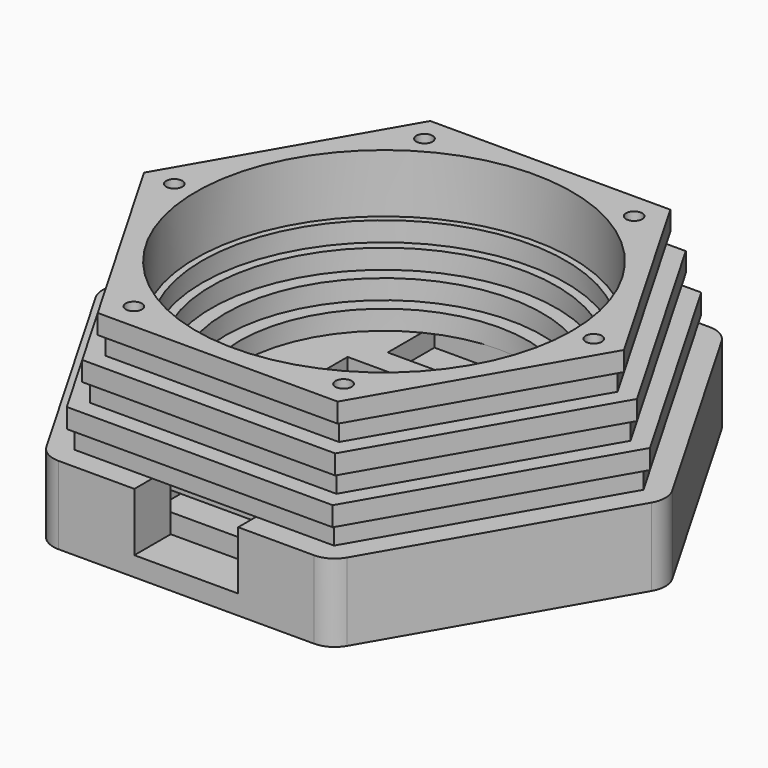
from build123d import *

# Parameters (mm, degrees)
PAD_DEPTH          = 9
SKETCH001_W        = 26.1
SKETCH001_H        = 34.4
POCKET_DEPTH       = 3
SKETCH002_R        = 22.22
PAD001_DEPTH       = 3
SKETCH003_R        = 24.44
PAD002_DEPTH       = 3
SKETCH004_R        = 26.6
PAD003_DEPTH       = 3
SKETCH005_R        = 28
PAD004_DEPTH       = 3
SKETCH006_R        = 29
PAD005_DEPTH       = 3
SKETCH007_R        = 29
PAD006_DEPTH       = 3
SKETCH008_R        = 29
PAD007_DEPTH       = 3
SKETCH009_W        = 17
SKETCH009_H        = 24
POCKET001_DEPTH    = 3
SKETCH010_W        = 16
SKETCH010_H        = 9
POCKET002_DEPTH    = 7
SKETCH011_W        = 20
SKETCH011_H        = 9
POCKET003_DEPTH    = 3
SKETCH012_R        = 1.25
POCKET004_DEPTH    = 270.433943
POLARPATTERN_COUNT = 6
SKETCH013_W        = 3
SKETCH013_H        = 38
POCKET005_DEPTH    = 3
SKETCH014_W        = 3
SKETCH014_H        = 6
POCKET006_DEPTH    = 6
SKETCH015_W        = 10.05
SKETCH015_H        = 6
POCKET007_DEPTH    = 3
FILLET_R           = 4


with BuildPart() as part:
    # Sketch → Pad (new body)
    with BuildSketch(Plane.XY):
        Polygon((44, 0), (22, 38.105118), (-22, 38.105118), (-44, 0), (-22, -38.105118), (22, -38.105118), align=None)
    extrude(amount=PAD_DEPTH)

    # Sketch001 (on Face8 of Pad) → Pocket (cut)
    with BuildSketch(Plane.XY.offset(9)):
        with Locations((0, -13.905118)):
            Rectangle(SKETCH001_W, SKETCH001_H)
    extrude(amount=-POCKET_DEPTH, mode=Mode.SUBTRACT)

    # Sketch002 (on Face5 of Pocket) → Pad001 (join)
    with BuildSketch(Plane.XY.offset(9)):
        Polygon((22, 38.105118), (-22, 38.105118), (-44, 0), (-22, -38.105118), (22, -38.105118), (44, 0), align=None)
        Circle(SKETCH002_R, mode=Mode.SUBTRACT)
    extrude(amount=PAD001_DEPTH)

    # Sketch003 (on Face14 of Pad001) → Pad002 (join)
    with BuildSketch(Plane.XY.offset(12)):
        Polygon((40, 0), (20, 34.641016), (-20, 34.641016), (-40, 0), (-20, -34.641016), (20, -34.641016), align=None)
        Circle(SKETCH003_R, mode=Mode.SUBTRACT)
    extrude(amount=PAD002_DEPTH)

    # Sketch004 (on Face21 of Pad002) → Pad003 (join)
    with BuildSketch(Plane.XY.offset(15)):
        Polygon((41, 0), (20.5, 35.507042), (-20.5, 35.507042), (-41, 0), (-20.5, -35.507042), (20.5, -35.507042), align=None)
        Circle(SKETCH004_R, mode=Mode.SUBTRACT)
    extrude(amount=PAD003_DEPTH)

    # Sketch005 (on Face28 of Pad003) → Pad004 (join)
    with BuildSketch(Plane.XY.offset(18)):
        Polygon((19, 32.908965), (-19, 32.908965), (-38, 0), (-19, -32.908965), (19, -32.908965), (38, 0), align=None)
        Circle(SKETCH005_R, mode=Mode.SUBTRACT)
    extrude(amount=PAD004_DEPTH)

    # Sketch006 (on Face35 of Pad004) → Pad005 (join)
    with BuildSketch(Plane.XY.offset(21)):
        Polygon((39, 0), (19.5, 33.774991), (-19.5, 33.774991), (-39, 0), (-19.5, -33.774991), (19.5, -33.774991), align=None)
        Circle(SKETCH006_R, mode=Mode.SUBTRACT)
    extrude(amount=PAD005_DEPTH)

    # Sketch007 (on Face42 of Pad005) → Pad006 (join)
    with BuildSketch(Plane.XY.offset(24)):
        Polygon((36, 0), (18, 31.176915), (-18, 31.176915), (-36, 0), (-18, -31.176915), (18, -31.176915), align=None)
        Circle(SKETCH007_R, mode=Mode.SUBTRACT)
    extrude(amount=PAD006_DEPTH)

    # Sketch008 (on Face49 of Pad006) → Pad007 (join)
    with BuildSketch(Plane.XY.offset(27)):
        Polygon((37, 0), (18.5, 32.04294), (-18.5, 32.04294), (-37, 0), (-18.5, -32.04294), (18.5, -32.04294), align=None)
        Circle(SKETCH008_R, mode=Mode.SUBTRACT)
    extrude(amount=PAD007_DEPTH)

    # Sketch009 (on Face74 of Pad007) → Pocket001 (cut)
    with BuildSketch(Plane.XY.offset(6)):
        with Locations((0, -8.705118)):
            Rectangle(SKETCH009_W, SKETCH009_H)
    extrude(amount=-POCKET001_DEPTH, mode=Mode.SUBTRACT)

    # Sketch010 (on Face12 of Pocket001) → Pocket002 (cut)
    with BuildSketch(Plane.XZ.offset(38.105118)):
        with Locations((0, 7.5)):
            Rectangle(SKETCH010_W, SKETCH010_H)
    extrude(amount=-POCKET002_DEPTH, mode=Mode.SUBTRACT)

    # Sketch011 (on Face40 of Pocket002) → Pocket003 (cut)
    with BuildSketch(Plane.XY.offset(9)):
        with Locations((0, 17.72)):
            Rectangle(SKETCH011_W, SKETCH011_H)
    extrude(amount=-POCKET003_DEPTH, mode=Mode.SUBTRACT)

    # Sketch012 (on Face93 of Pocket003) → Pocket004 (cut, through all)
    with BuildSketch(Plane.XY.offset(30)):
        with Locations((-32.33, 0)):
            Circle(SKETCH012_R)
    pocket004 = extrude(amount=-POCKET004_DEPTH, mode=Mode.SUBTRACT)

    # PolarPattern: Pocket004 ×6 about axis
    polarpattern_axis = Axis((0, 0, 30), (0, 0, 1))
    for i in range(1, POLARPATTERN_COUNT):
        add(pocket004.rotate(polarpattern_axis, i * 360 / POLARPATTERN_COUNT), mode=Mode.SUBTRACT)

    # Sketch013 (on Face45 of PolarPattern) → Pocket005 (cut)
    with BuildSketch(Plane.XY.offset(6)):
        with Locations((-11.55, -12.105118)):
            Rectangle(SKETCH013_W, SKETCH013_H)
    extrude(amount=-POCKET005_DEPTH, mode=Mode.SUBTRACT)

    # Sketch014 (on Face58 of Pocket005) → Pocket006 (cut)
    with BuildSketch(Plane.XY.offset(9)):
        with Locations((-11.55, 6.294882)):
            Rectangle(SKETCH014_W, SKETCH014_H)
    extrude(amount=-POCKET006_DEPTH, mode=Mode.SUBTRACT)

    # Sketch015 (on Face58 of Pocket006) → Pocket007 (cut)
    with BuildSketch(Plane.XY.offset(9)):
        with Locations((-5.025, 6.294882)):
            Rectangle(SKETCH015_W, SKETCH015_H)
    extrude(amount=-POCKET007_DEPTH, mode=Mode.SUBTRACT)

    # Fillet
    fillet_edges = [part.edges().sort_by_distance(p)[0] for p in [
        (22, -38.105118, 4.5),
        (44, 0, 4.5),
        (22, 38.105118, 4.5),
        (-22, 38.105118, 4.5),
        (-44, 0, 4.5),
        (-22, -38.105118, 4.5),
    ]]
    fillet(fillet_edges, radius=FILLET_R)


solid = part.part
